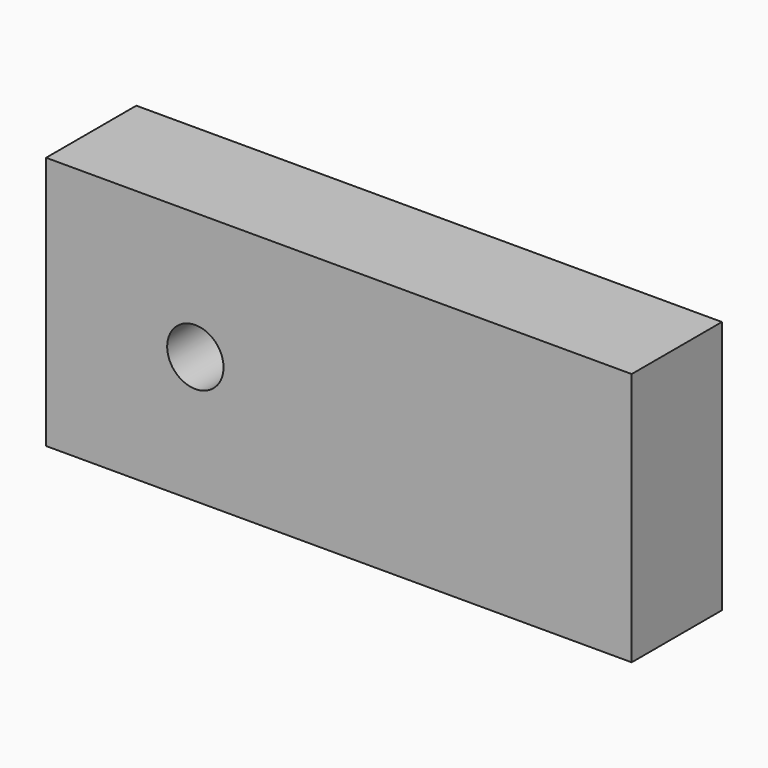
from build123d import *

# Parameters (mm, degrees)
F0_W     = 51.918142
F0_H     = 22.501372
F1_DEPTH = 10
F3_D     = 5


with BuildPart() as f1:
    # F0 (on Front) → F1 (new body)
    with BuildSketch(Plane.XZ):
        Rectangle(F0_W, F0_H)
    extrude(amount=F1_DEPTH)

    # F3 (through all)
    with Locations(Plane.XZ.offset(10)):
        with Locations((-12.724455, 0)):
            Hole(F3_D / 2)


solid = f1.part
